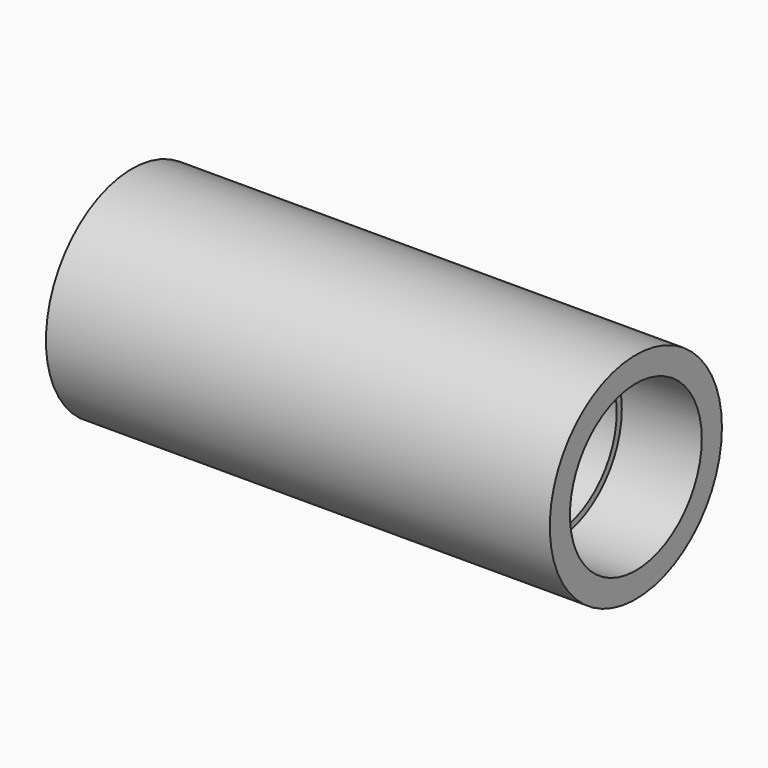
from build123d import *

# Parameters (mm, degrees)
F0_R     = 13.45
F1_DEPTH = 63
F2_R     = 9.5
F3_DEPTH = 63.001
F4_R     = 10.3
F5_DEPTH = 10


with BuildPart() as f1:
    # F0 (on Right) → F1 (new body)
    with BuildSketch(Plane.YZ):
        Circle(F0_R)
    extrude(amount=F1_DEPTH)

    # F2 (on face) → F3 (cut, through all)
    with BuildSketch(Plane.YZ.offset(63)):
        Circle(F2_R)
    extrude(amount=-F3_DEPTH, mode=Mode.SUBTRACT)

    # F4 (on face) → F5 (cut)
    with BuildSketch(Plane.YZ.offset(63)):
        Circle(F4_R)
    extrude(amount=-F5_DEPTH, mode=Mode.SUBTRACT)


solid = f1.part
